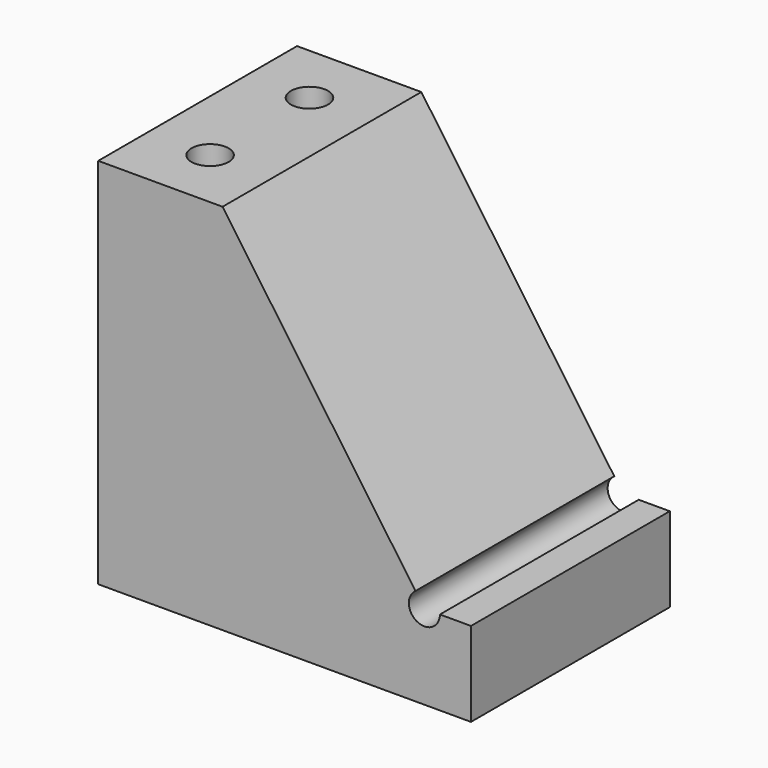
from build123d import *

# Parameters (mm, degrees)
F1_DEPTH = 25.4
F3_D     = 3.7973
F5_D     = 3.175


with BuildPart() as f1:
    # F0 (on Front) → F1 (new body)
    with BuildSketch(Plane.XZ):
        Polygon((0, 38.1), (0, 0), (38.1, 0), (38.1, 8.636), (33.3375, 8.636), (12.7065850942, 38.1), align=None)
    extrude(amount=-F1_DEPTH)

    # F3 (through all)
    with Locations(Plane.XY.offset(38.1)):
        with Locations((6.3532925471, 19.05), (6.3532925471, 6.35)):
            Hole(F3_D / 2)

    # F5 (through all)
    with Locations(Plane.XZ):
        with Locations((33.3375, 8.636)):
            Hole(F5_D / 2)


solid = f1.part
